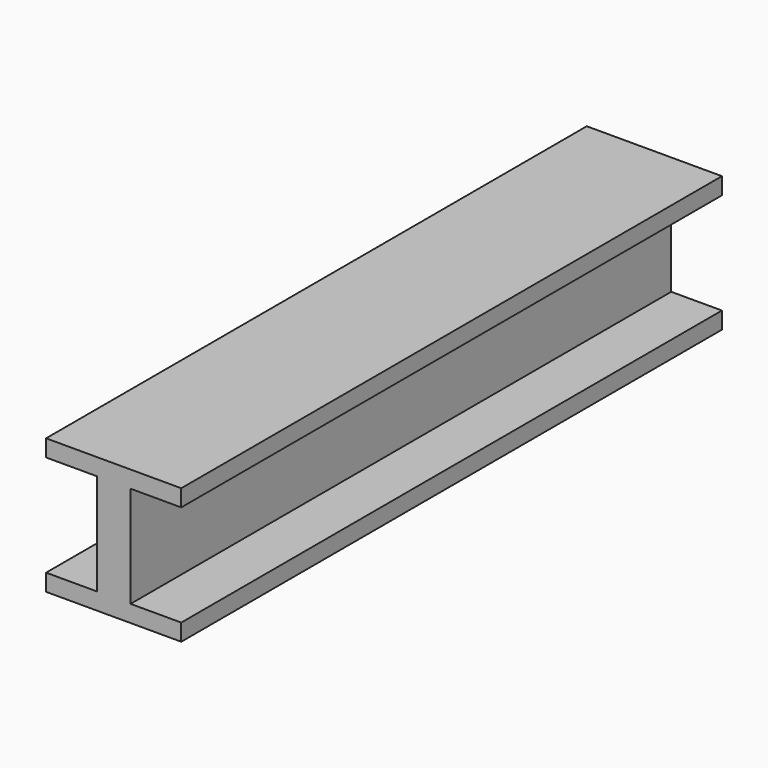
from build123d import *

# Parameters (mm, degrees)
F1_DEPTH = 500


with BuildPart() as f1:
    # F0 (on Front) → F1 (new body, symmetric)
    with BuildSketch(Plane.XZ):
        Polygon((100, 100), (0, 100), (-100, 100), (-100, 75), (-25, 75), (-25, 0), (-25, -75), (-100, -75), (-100, -100), (0, -100), (100, -100), (100, -75), (25, -75), (25, 0), (25, 75), (100, 75), align=None)
    extrude(amount=F1_DEPTH, both=True)


solid = f1.part
